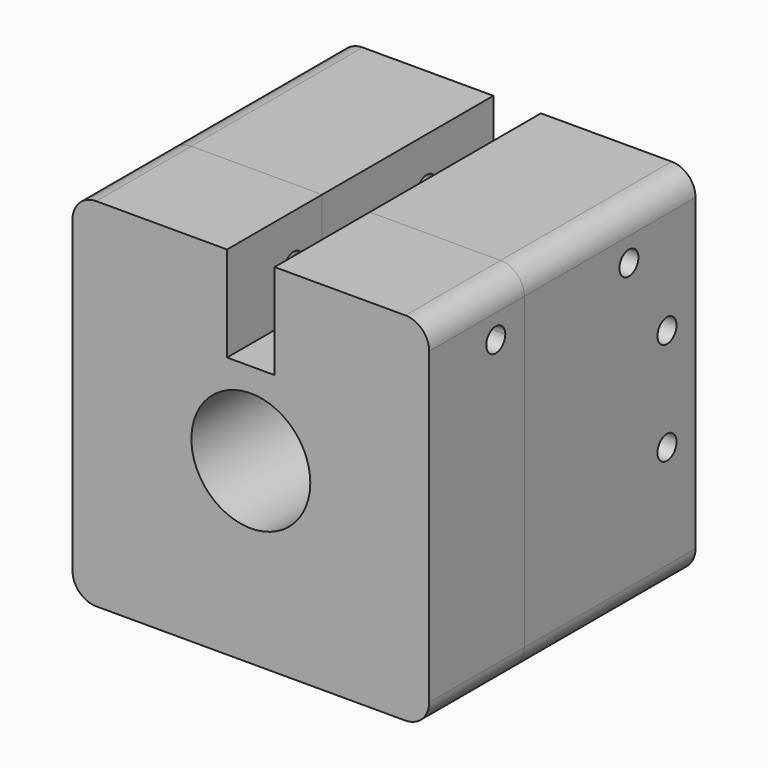
from build123d import *

# Parameters (mm, degrees)
F0_W      = 75
F0_H      = 75
F1_DEPTH  = 45
F2_R      = 5
F3_R      = 12.5
F4_DEPTH  = 25
F6_DEPTH  = 20
F8_DEPTH  = 25
F10_DEPTH = 75.001
F11_DEPTH = 25
F12_R     = 2.5
F13_DEPTH = 75.001


with BuildPart() as f1:
    # F0 (on Front) → F1 (new body)
    with BuildSketch(Plane.XZ):
        with Locations((7.8840382397, -17.0557253063)):
            Rectangle(F0_W, F0_H)
    extrude(amount=F1_DEPTH)

    # F2
    f2_edges = [f1.edges().sort_by_distance(p)[0] for p in [
        (-29.615962, -22.5, 20.444275),
        (-29.615962, -22.5, -54.555725),
        (45.384038, -22.5, -54.555725),
        (45.384038, -22.5, 20.444275),
    ]]
    fillet(f2_edges, radius=F2_R)

    # F3 (on face) → F4 (cut)
    with BuildSketch(Plane.XZ.offset(45)):
        with Locations((7.8840382397, -17.0557253063)):
            Circle(F3_R)
    extrude(amount=-F4_DEPTH, mode=Mode.SUBTRACT)

    # F5 (on face) → F6 (cut)
    with BuildSketch(Plane.XY.offset(20.4442746937)):
        Polygon((7.8840382397, -25), (7.8840382397, 0), (2.8840382397, 0), (2.8840382397, -45), (7.8840382397, -45), align=None)
        Polygon((12.8840382397, 0), (7.8840382397, 0), (7.8840382397, -25), (7.8840382397, -45), (12.8840382397, -45), align=None)
    extrude(amount=-F6_DEPTH, mode=Mode.SUBTRACT)

    # F7 (on face) → F8 (cut)
    with BuildSketch(Plane.XZ):
        Polygon((12.8703957796, 0.5023097037), (2.8703957796, 0.4370668321), (2.8703957796, -54.635066539), (12.8703957796, -54.635066539), align=None)
    extrude(amount=F8_DEPTH, mode=Mode.SUBTRACT)

    # F9 (on face) → F10 (cut, through all)
    with BuildSketch(Plane(origin=(-29.6159617603, 0, 0), x_dir=(0, -1, 0), z_dir=(-1, 0, 0))):
        with BuildLine():
            ThreePointArc((10, -27.7557253063), (7.5, -25.2557253063), (5, -27.7557253063))
            ThreePointArc((5, -27.7557253063), (7.5, -30.2557253063), (10, -27.7557253063))
        make_face()
        with BuildLine():
            ThreePointArc((10, -6.1557253063), (7.5, -3.6557253063), (5, -6.1557253063))
            ThreePointArc((5, -6.1557253063), (7.5, -8.6557253063), (10, -6.1557253063))
        make_face()
    extrude(amount=-F10_DEPTH, mode=Mode.SUBTRACT)

    # F11 (add): a face of the model
    f11_faces = [f1.faces().sort_by_distance(p)[0] for p in [
        (43.1695721457, -45, -52.3412592122),
    ]]
    extrude(f11_faces, amount=F11_DEPTH)

    # F12 (on face) → F13 (cut, through all)
    with BuildSketch(Plane(origin=(-29.6159617603, 0, 0), x_dir=(0, -1, 0), z_dir=(-1, 0, 0))):
        with BuildLine():
            ThreePointArc((55, 10.4442746937), (54.267766953, 12.2120416467), (52.5, 12.9442746937))
            Line((52.5, 12.9442746937), (52.5, 10.4442746937))
            Line((52.5, 10.4442746937), (50, 10.4442746937))
            ThreePointArc((50, 10.4442746937), (52.5, 7.9442746937), (55, 10.4442746937))
        make_face()
        with Locations((17.5, 10.4442746937)):
            Circle(F12_R)
        with BuildLine():
            Line((52.5, 10.4442746937), (52.5, 12.9442746937))
            ThreePointArc((52.5, 12.9442746937), (50.732233047, 12.2120416467), (50, 10.4442746937))
            Line((50, 10.4442746937), (52.5, 10.4442746937))
        make_face()
    extrude(amount=-F13_DEPTH, mode=Mode.SUBTRACT)


solid = f1.part
